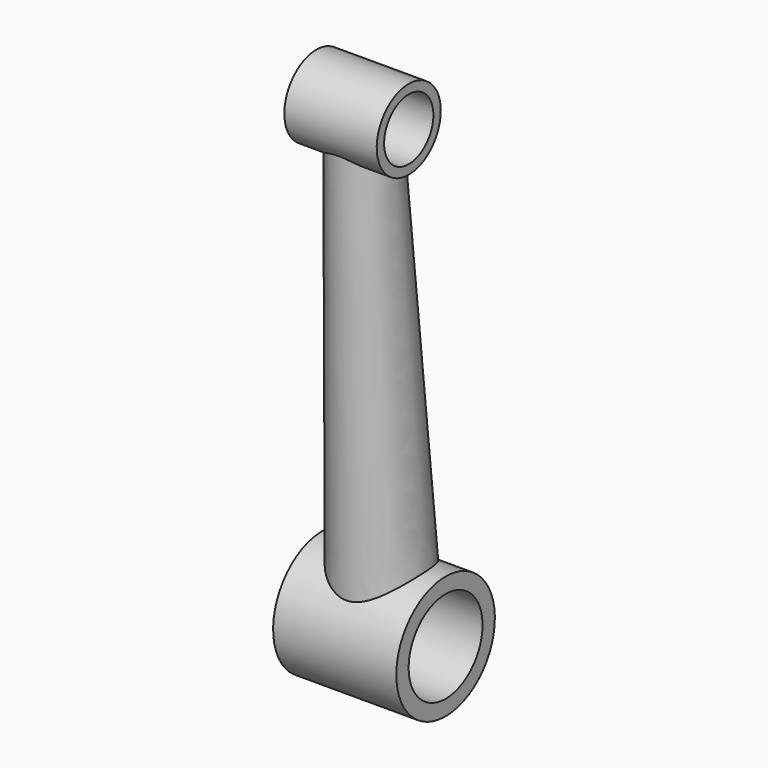
from build123d import *

# Parameters (mm, degrees)
CYLINDER027_R          = 10
CYLINDER027_DEPTH      = 100
CYLINDER028_R          = 15
CYLINDER028_DEPTH      = 100
CYLINDER026_R          = 13
CYLINDER026_DEPTH      = 30
CYLINDER025_R          = 20
CYLINDER025_DEPTH      = 40
CUT015_PLACEMENT_ANGLE = 3.326608


with BuildPart() as cylinder027:
    # Cylinder027 → Cylinder027 (new body)
    with BuildSketch(Plane(origin=(50, 0, 150), x_dir=(0, 0, 1), z_dir=(-1, 0, 0))):
        Circle(CYLINDER027_R)
    extrude(amount=CYLINDER027_DEPTH)


with BuildPart() as compound010:
    # Cylinder028 → Cylinder028 (new body)
    with BuildSketch(Plane.ZY.offset(-50)):
        Circle(CYLINDER028_R)
    extrude(amount=CYLINDER028_DEPTH)

    # Compound010: union Cylinder027
    add(cylinder027.part)


with BuildPart() as cone005:
    # Cone001004 → Cone001004 (revolve)
    with BuildSketch(Plane.XZ):
        Polygon((0, 0), (15, 0), (10, 150), (0, 150), align=None)
    revolve(axis=Axis((0, 0, 0), (0, 0, 1)))


with BuildPart() as cylinder026:
    # Cylinder026 → Cylinder026 (new body)
    with BuildSketch(Plane(origin=(15, 0, 150), x_dir=(0, 0, 1), z_dir=(-1, 0, 0))):
        Circle(CYLINDER026_R)
    extrude(amount=CYLINDER026_DEPTH)


with BuildPart() as crank002:
    # Cylinder025 → Cylinder025 (new body)
    with BuildSketch(Plane.ZY.offset(-20)):
        Circle(CYLINDER025_R)
    extrude(amount=CYLINDER025_DEPTH)

    # Fusion003002003004006: union Cone005, Cylinder026
    add(cone005.part)
    add(cylinder026.part)

    # Cut015: cut Compound010
    add(compound010.part, mode=Mode.SUBTRACT)


with BuildPart() as crank002_1:
    # Cut015 placement: moved
    add(crank002.part.moved(Location((200, 8.704146, -33.900411))).rotate(Axis((200, 8.704146, -33.900411), (1, 0, 0)), CUT015_PLACEMENT_ANGLE))


solid = crank002_1.part
